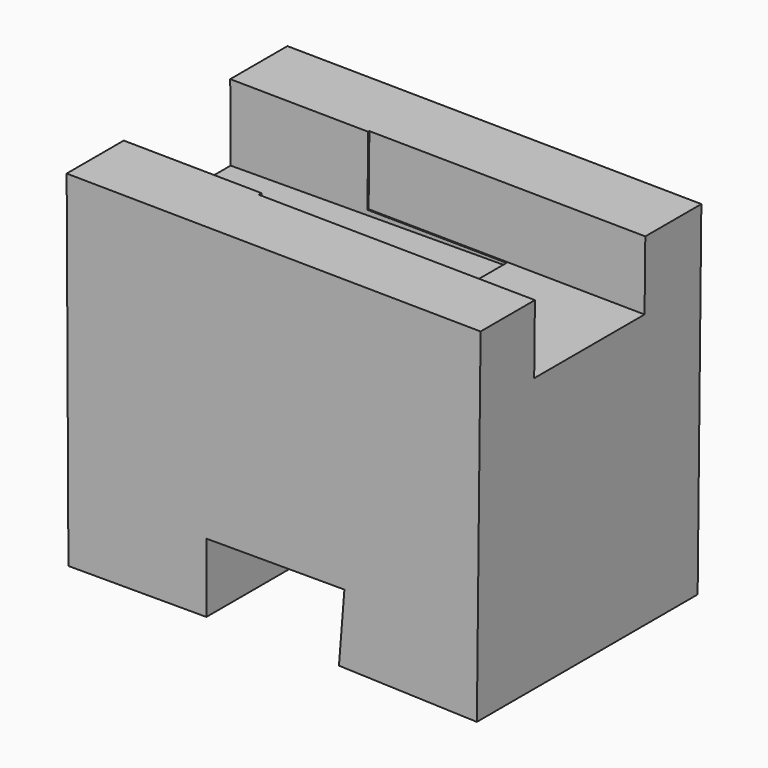
from build123d import *

# Parameters (mm, degrees)
F1_DEPTH = 25.4
F2_W     = 12.2484653257
F2_H     = 6.995950315
F3_DEPTH = 25.4
F4_W     = 12.7
F4_H     = 6.35
F5_DEPTH = 25.4


with BuildPart() as f1:
    # F0 (on Front) → F1 (new body)
    with BuildSketch(Plane.XZ):
        Polygon((-58.1661015928, 43.1416464728), (-58.0037304439, 11.3920616628), (-45.3037304439, 11.3920616628), (-45.3037304439, 17.7420616628), (-32.6037304439, 17.7420616628), (-33.1024721118, 11.411678045), (-20.4096810303, 10.9838292846), (-20.0683039551, 42.7319939826), align=None)
    extrude(amount=F1_DEPTH)

    # F2 (on face) → F3 (cut)
    with BuildSketch(Plane(origin=(-57.9439546086, 0, -0.2963322682), x_dir=(0, -1, 0), z_dir=(-0.9999869232, 0, -0.0051140519))):
        with Locations((12.7056662459, 39.9405716228)):
            Rectangle(F2_W, F2_H)
    extrude(amount=-F3_DEPTH, mode=Mode.SUBTRACT)

    # F4 (on face) → F5 (cut)
    with BuildSketch(Plane(origin=(-20.5254132218, 0, 0.2207026957), x_dir=(0, 1, 0), z_dir=(0.9999421952, 0, -0.0107520339))):
        with Locations((-12.7976922482, 39.338748785)):
            Rectangle(F4_W, F4_H)
    extrude(amount=-F5_DEPTH, mode=Mode.SUBTRACT)


solid = f1.part
